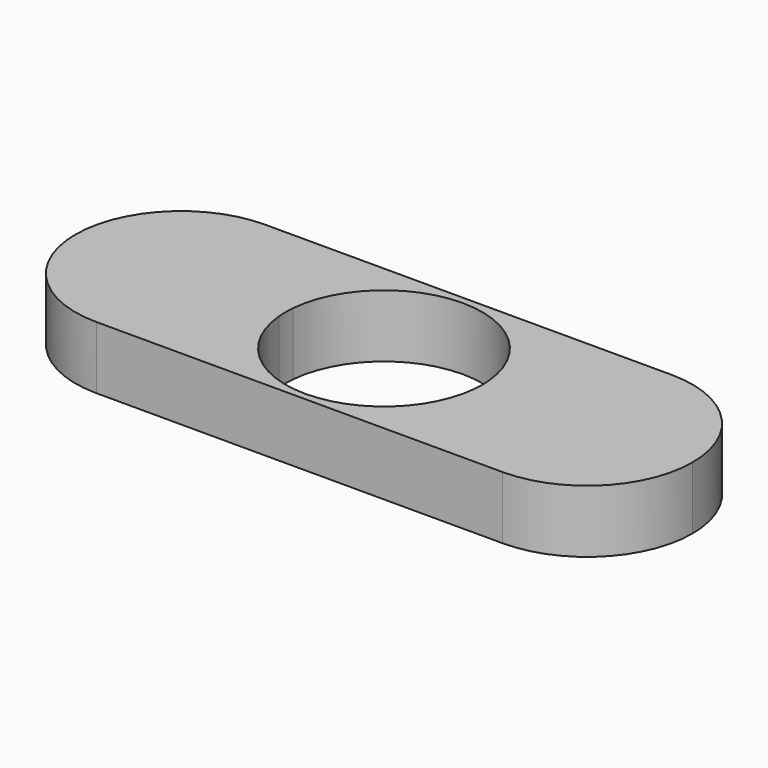
from build123d import *

# Parameters (mm, degrees)
F1_DEPTH = 7


with BuildPart() as f1:
    # F0 (on Top) → F1 (new body)
    with BuildSketch(Plane.XY):
        with BuildLine():
            ThreePointArc((10.9424882845, 0.9711644524), (10.9747418033, 0.4860582273), (10.9855, 0))
            ThreePointArc((10.9855, 0), (10.9747418033, -0.4860582273), (10.9424882845, -0.9711644524))
            ThreePointArc((10.9424882845, -0.9711644524), (14.7028715464, -8.6649815834), (22.6805508137, -11.7781693116))
            Line((22.6805508137, -11.7781693116), (22.6805508137, -10.9855))
            ThreePointArc((22.6805508137, -10.9855), (11.6950508137, 0), (22.6805508137, 10.9855))
            Line((22.6805508137, 10.9855), (22.6805508137, 11.7781693116))
            ThreePointArc((22.6805508137, 11.7781693116), (14.7028715464, 8.6649815834), (10.9424882845, 0.9711644524))
        make_face()
        with BuildLine():
            ThreePointArc((-10.9423311539, 0.9729332804), (0.0008878968, 10.9854999641), (10.9424882845, 0.9711644524))
            ThreePointArc((10.9424882845, 0.9711644524), (14.7028715464, 8.6649815834), (22.6805508137, 11.7781693116))
            Line((22.6805508137, 11.7781693116), (-22.6802472025, 11.7781693116))
            ThreePointArc((-22.6802472025, 11.7781693116), (-14.7032208322, 8.6655826474), (-10.9423311539, 0.9729332804))
        make_face()
        with BuildLine():
            ThreePointArc((22.6805508137, -11.7781693116), (14.7028715464, -8.6649815834), (10.9424882845, -0.9711644524))
            ThreePointArc((10.9424882845, -0.9711644524), (0.0008878968, -10.9854999641), (-10.9423311539, -0.9729332804))
            ThreePointArc((-10.9423311539, -0.9729332804), (-14.7032208322, -8.6655826474), (-22.6802472025, -11.7781693116))
            Line((-22.6802472025, -11.7781693116), (22.6805508137, -11.7781693116))
        make_face()
        with BuildLine():
            ThreePointArc((-10.9423311539, -0.9729332804), (-10.9855, 0), (-10.9423311539, 0.9729332804))
            ThreePointArc((-10.9423311539, 0.9729332804), (-14.7032208322, 8.6655826474), (-22.6802472025, 11.7781693116))
            Line((-22.6802472025, 11.7781693116), (-22.6802472025, 10.9855))
            ThreePointArc((-22.6802472025, 10.9855), (-14.9123256578, 7.7679215447), (-11.6947472025, 0))
            ThreePointArc((-11.6947472025, 0), (-14.9123256578, -7.7679215447), (-22.6802472025, -10.9855))
            Line((-22.6802472025, -10.9855), (-22.6802472025, -11.7781693116))
            ThreePointArc((-22.6802472025, -11.7781693116), (-14.7032208322, -8.6655826474), (-10.9423311539, -0.9729332804))
        make_face()
        with BuildLine():
            ThreePointArc((34.4587201253, 0), (31.0089742039, 8.3284233902), (22.6805508137, 11.7781693116))
            Line((22.6805508137, 11.7781693116), (22.6805508137, 10.9855))
            ThreePointArc((22.6805508137, 10.9855), (30.4484723584, 7.7679215447), (33.6660508137, 0))
            ThreePointArc((33.6660508137, 0), (30.4484723584, -7.7679215447), (22.6805508137, -10.9855))
            Line((22.6805508137, -10.9855), (22.6805508137, -11.7781693116))
            ThreePointArc((22.6805508137, -11.7781693116), (31.0089742039, -8.3284233902), (34.4587201253, 0))
        make_face()
        with BuildLine():
            Line((-22.6802472025, 10.9855), (-22.6802472025, 11.7781693116))
            ThreePointArc((-22.6802472025, 11.7781693116), (-34.4584165141, 0), (-22.6802472025, -11.7781693116))
            Line((-22.6802472025, -11.7781693116), (-22.6802472025, -10.9855))
            ThreePointArc((-22.6802472025, -10.9855), (-33.6657472025, 0), (-22.6802472025, 10.9855))
        make_face()
        with BuildLine():
            Line((-22.6802472025, -10.9855), (-22.6802472025, 10.9855))
            ThreePointArc((-22.6802472025, 10.9855), (-33.6657472025, 0), (-22.6802472025, -10.9855))
        make_face()
        with BuildLine():
            ThreePointArc((-11.6947472025, 0), (-14.9123256578, 7.7679215447), (-22.6802472025, 10.9855))
            Line((-22.6802472025, 10.9855), (-22.6802472025, -10.9855))
            ThreePointArc((-22.6802472025, -10.9855), (-14.9123256578, -7.7679215447), (-11.6947472025, 0))
        make_face()
        with BuildLine():
            Line((22.6805508137, -10.9855), (22.6805508137, 10.9855))
            ThreePointArc((22.6805508137, 10.9855), (11.6950508137, 0), (22.6805508137, -10.9855))
        make_face()
        with BuildLine():
            ThreePointArc((33.6660508137, 0), (30.4484723584, 7.7679215447), (22.6805508137, 10.9855))
            Line((22.6805508137, 10.9855), (22.6805508137, -10.9855))
            ThreePointArc((22.6805508137, -10.9855), (30.4484723584, -7.7679215447), (33.6660508137, 0))
        make_face()
    extrude(amount=F1_DEPTH)


solid = f1.part
